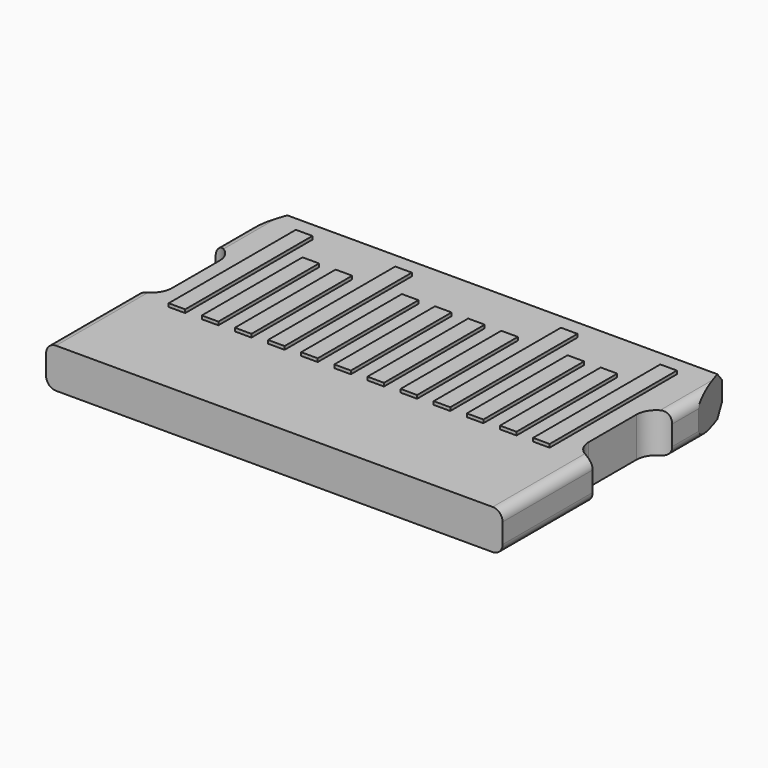
from build123d import *

# Parameters (mm, degrees)
PAD004_DEPTH             = 0.3
SKETCH003_W              = 0.25
SKETCH003_H              = 2.4
SKETCH003_H_2            = 1.9
PAD011_DEPTH             = 0.05
SKETCH003_MIRRORED_2_W   = 0.25
SKETCH003_MIRRORED_2_H   = 2.4
SKETCH003_MIRRORED_2_H_2 = 1.9
PAD011_MIRRORED_2_DEPTH  = 0.05
CHAMFER_SIZE             = 0.15
FILLET_R                 = 0.15


with BuildPart() as part:
    # Sketch001 → Pad004 (new body, symmetric)
    with BuildSketch(Plane.XY):
        with BuildLine():
            Line((3.445, 1.7), (3.445, 0))
            Line((3.445, 0), (-3.445, 0))
            Line((-3.445, 0), (-3.445, 1.7))
            ThreePointArc((-3.445, 1.7), (-3.232868, 1.787868), (-3.145, 2))
            Line((-3.145, 2), (-3.145, 2.9))
            ThreePointArc((-3.145, 2.9), (-3.232868, 3.112132), (-3.445, 3.2))
            Line((-3.445, 3.7), (-3.445, 3.2))
            Line((-3.195, 4.45), (-3.445, 3.7))
            Line((-3.195, 4.45), (3.195, 4.45))
            Line((3.195, 4.45), (3.445, 3.7))
            Line((3.445, 3.7), (3.445, 3.2))
            ThreePointArc((3.445, 3.2), (3.232868, 3.112132), (3.145, 2.9))
            Line((3.145, 2.9), (3.145, 2))
            ThreePointArc((3.145, 2), (3.232868, 1.787868), (3.445, 1.7))
        make_face()
    extrude(amount=PAD004_DEPTH, both=True)

    # Sketch003 (on Face16 of Pad004) → Pad011 (join)
    with BuildSketch(Plane.XY.offset(0.3)):
        with Locations((-2.75, 2.8)):
            Rectangle(SKETCH003_W, SKETCH003_H)
        with Locations((-1.25, 2.8)):
            Rectangle(SKETCH003_W, SKETCH003_H)
        with Locations((-2.25, 2.55)):
            Rectangle(SKETCH003_W, SKETCH003_H_2)
        with Locations((-1.75, 2.55)):
            Rectangle(SKETCH003_W, SKETCH003_H_2)
        with Locations((-0.75, 2.55)):
            Rectangle(SKETCH003_W, SKETCH003_H_2)
        with Locations((-0.25, 2.55)):
            Rectangle(SKETCH003_W, SKETCH003_H_2)
    pad011 = extrude(amount=PAD011_DEPTH)

    # Sketch003 Mirrored 2 → Pad011 Mirrored 2 (add)
    with BuildSketch(Plane(origin=(0, 0, 0.3), x_dir=(-1, 0, 0), z_dir=(0, 0, -1))):
        with Locations((-2.75, 2.8)):
            Rectangle(SKETCH003_MIRRORED_2_W, SKETCH003_MIRRORED_2_H)
        with Locations((-1.25, 2.8)):
            Rectangle(SKETCH003_MIRRORED_2_W, SKETCH003_MIRRORED_2_H)
        with Locations((-2.25, 2.55)):
            Rectangle(SKETCH003_MIRRORED_2_W, SKETCH003_MIRRORED_2_H_2)
        with Locations((-1.75, 2.55)):
            Rectangle(SKETCH003_MIRRORED_2_W, SKETCH003_MIRRORED_2_H_2)
        with Locations((-0.75, 2.55)):
            Rectangle(SKETCH003_MIRRORED_2_W, SKETCH003_MIRRORED_2_H_2)
        with Locations((-0.25, 2.55)):
            Rectangle(SKETCH003_MIRRORED_2_W, SKETCH003_MIRRORED_2_H_2)
    pad011_mirrored_2 = extrude(amount=-PAD011_MIRRORED_2_DEPTH)

    # Mirrored001: Pad011, Pad011 Mirrored 2 across XY
    add(pad011.mirror(Plane.XY))
    add(pad011_mirrored_2.mirror(Plane.XY))

    # Chamfer
    chamfer_edges = [part.edges().sort_by_distance(p)[0] for p in [
        (0, 4.45, -0.3),
        (0, 4.45, 0.3),
    ]]
    chamfer(chamfer_edges, length=CHAMFER_SIZE)

    # Fillet
    fillet_edges = [part.edges().sort_by_distance(p)[0] for p in [
        (-3.445, 3.45, 0.3),
        (-3.445, 3.45, -0.3),
        (-3.445, 0.85, 0.3),
        (-3.445, 0.85, -0.3),
        (3.445, 0.85, 0.3),
        (3.445, 0.85, -0.3),
        (3.445, 3.45, 0.3),
        (3.445, 3.45, -0.3),
    ]]
    fillet(fillet_edges, radius=FILLET_R)


solid = part.part
